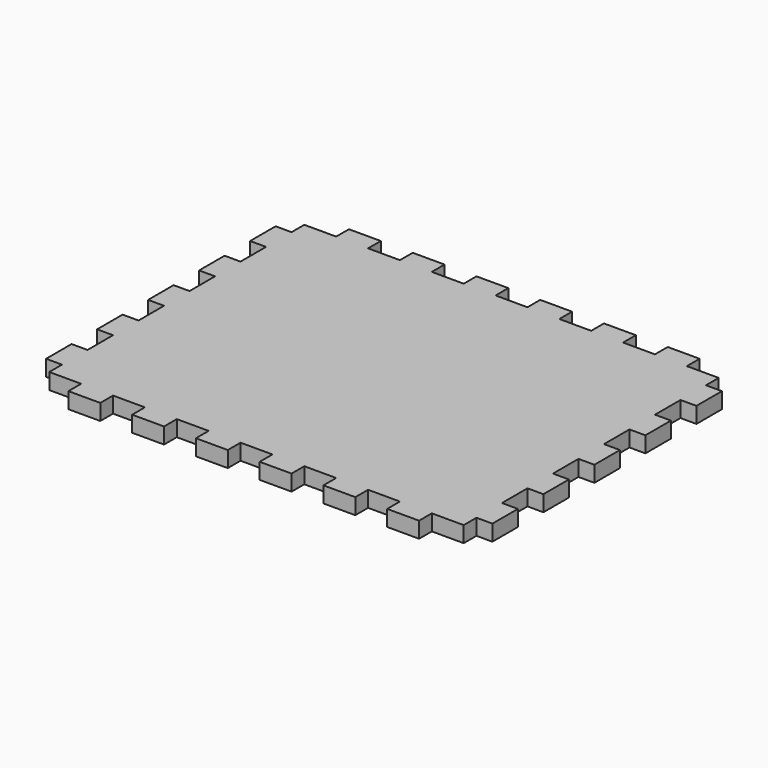
from build123d import *

# Parameters (mm, degrees)
F1_DEPTH = 6.35


with BuildPart() as f1:
    # F0 (on Top) → F1 (new body)
    with BuildSketch(Plane.XY):
        Polygon((31.75, 0), (19.05, 0), (19.05, -6.35), (6.35, -6.35), (6.35, -12.7), (0, -12.7), (0, -25.4), (6.35, -25.4), (6.35, -38.1), (0, -38.1), (0, -50.8), (6.35, -50.8), (6.35, -63.5), (0, -63.5), (0, -76.2), (6.35, -76.2), (6.35, -88.9), (0, -88.9), (0, -101.6), (6.35, -101.6), (6.35, -114.3), (0, -114.3), (0, -127), (6.35, -127), (6.35, -133.35), (19.05, -133.35), (19.05, -139.7), (31.75, -139.7), (31.75, -133.35), (44.45, -133.35), (44.45, -139.7), (57.15, -139.7), (57.15, -133.35), (69.85, -133.35), (69.85, -139.7), (82.55, -139.7), (82.55, -133.35), (95.25, -133.35), (95.25, -139.7), (107.95, -139.7), (107.95, -133.35), (120.65, -133.35), (120.65, -139.7), (133.35, -139.7), (133.35, -133.35), (146.05, -133.35), (146.05, -139.7), (158.75, -139.7), (158.75, -133.35), (171.45, -133.35), (171.45, -127), (177.8, -127), (177.8, -114.3), (171.45, -114.3), (171.45, -101.6), (177.8, -101.6), (177.8, -88.9), (171.45, -88.9), (171.45, -76.2), (177.8, -76.2), (177.8, -63.5), (171.45, -63.5), (171.45, -50.8), (177.8, -50.8), (177.8, -38.1), (171.45, -38.1), (171.45, -25.4), (177.8, -25.4), (177.8, -12.7), (171.45, -12.7), (171.45, -6.35), (158.75, -6.35), (158.75, 0), (146.05, 0), (146.05, -6.35), (133.35, -6.35), (133.35, 0), (120.65, 0), (120.65, -6.35), (107.95, -6.35), (107.95, 0), (95.25, 0), (95.25, -6.35), (82.55, -6.35), (82.55, 0), (69.85, 0), (69.85, -6.35), (57.15, -6.35), (57.15, 0), (44.45, 0), (44.45, -6.35), (31.75, -6.35), align=None)
    extrude(amount=F1_DEPTH)


solid = f1.part
